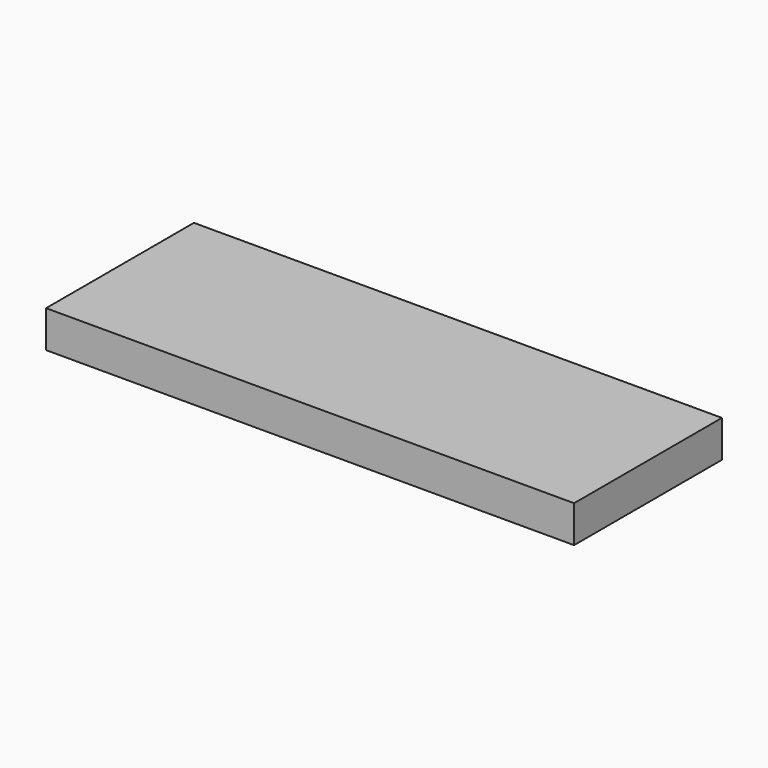
from build123d import *

# Parameters (mm, degrees)
SKETCH_W  = 200
SKETCH_H  = 70
PAD_DEPTH = 14


with BuildPart() as part:
    # Sketch → Pad (new body)
    with BuildSketch(Plane.XY):
        with Locations((100, 35)):
            Rectangle(SKETCH_W, SKETCH_H)
    extrude(amount=PAD_DEPTH)


solid = part.part
